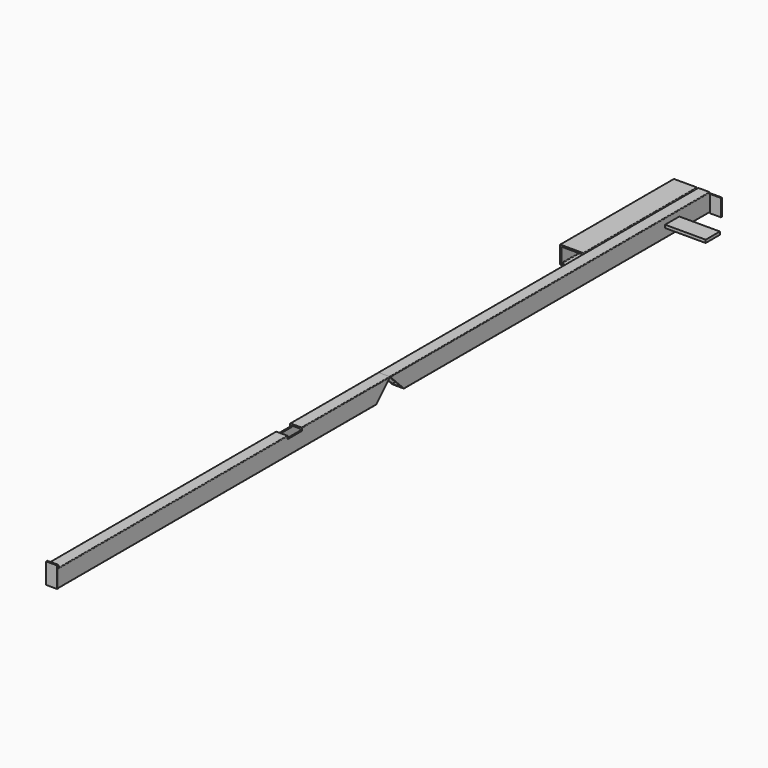
from build123d import *

# Parameters (mm, degrees)
F1_W      = 203.2
F1_H      = 152.4
F1_W_2    = 177.8
F1_H_2    = 127
F3_DEPTH  = 1219.2
F0_W      = 101.6
F0_H      = 152.4
F0_W_2    = 76.2
F0_H_2    = 127
F4_DEPTH  = 3429
F2_W      = 95.25
F2_H      = 146.05
F5_DEPTH  = 9.525
F6_DEPTH  = 3556
F9_DEPTH  = 311.151
F10_DEPTH = 311.151
F11_W     = 95.25
F11_H     = 209.55
F11_W_2   = 76.2
F11_H_2   = 179.6051224214
F12_DEPTH = 9.525
F13_W     = 95.25
F13_H     = 152.4
F13_W_2   = 76.2
F13_H_2   = 127
F13_H_3   = 25.4
F14_DEPTH = 12.7
F15_R     = 5.08
F15_2_R   = 5.08
F15_3_R   = 5.08
F16_W     = 609.6
F16_H     = 152.4
F17_DEPTH = 25.4
F18_W     = 246.9795793295
F18_H     = 152.4
F19_DEPTH = 25.4


with BuildPart() as f3:
    # F1 (on Front) → F3 (new body)
    with BuildSketch(Plane.XZ):
        with Locations((-158.75, -0.0468501925)):
            Rectangle(F1_W, F1_H)
        with Locations((-158.75, -0.0468501925)):
            Rectangle(F1_W_2, F1_H_2, mode=Mode.SUBTRACT)
    extrude(amount=F3_DEPTH)

    # F15#3
    f15_3_edges = [f3.edges().sort_by_distance(p)[0] for p in [
        (-69.85, -609.6, 63.45315),
        (-69.85, -609.6, -63.54685),
        (-247.65, -609.6, -63.54685),
        (-247.65, -609.6, 63.45315),
        (-57.15, -609.6, -76.24685),
        (-260.35, -609.6, -76.24685),
        (-260.35, -609.6, 76.15315),
        (-57.15, -609.6, 76.15315),
    ]]
    fillet(f15_3_edges, radius=F15_3_R)


with BuildPart() as f4:
    # F0 (on Front) → F4 (new body)
    with BuildSketch(Plane.XZ):
        Rectangle(F0_W, F0_H)
        Rectangle(F0_W_2, F0_H_2, mode=Mode.SUBTRACT)
    extrude(amount=F4_DEPTH)


with BuildPart() as f5:
    # F2 (on Front) → F5 (new body)
    with BuildSketch(Plane.XZ):
        with Locations((107.0601179898, -3.458078301)):
            Rectangle(F2_W, F2_H)
    extrude(amount=F5_DEPTH)


with BuildPart() as f6:
    # F6 (new): a face of the model
    f6_faces = [f4.part.faces().sort_by_distance(p)[0] for p in [
        (0, -3429, -74.3683799521),
    ]]
    extrude(f6_faces, amount=F6_DEPTH)

    # F7 (on face) → F10 (cut, through all)
    with BuildSketch(Plane.YZ.offset(50.8)):
        Polygon((-3429, -76.2), (-3429, 76.2), (-3581.4, -76.2), align=None)
    extrude(amount=-F10_DEPTH, mode=Mode.SUBTRACT)

    # F15#2
    f15_2_edges = [f6.edges().sort_by_distance(p)[0] for p in [
        (50.8, -5283.2, -76.2),
        (-50.8, -5283.2, -76.2),
        (50.8, -5207, 76.2),
        (-50.8, -5207, 76.2),
        (-38.1, -5213.35, 63.5),
        (38.1, -5213.35, 63.5),
        (38.1, -5276.85, -63.5),
        (-38.1, -5276.85, -63.5),
    ]]
    fillet(f15_2_edges, radius=F15_2_R)

    # F18 (on face) → F19 (cut)
    with BuildSketch(Plane.XY.offset(76.2)):
        with Locations((-5.5087581277, -4450.08)):
            Rectangle(F18_W, F18_H)
    extrude(amount=-F19_DEPTH, mode=Mode.SUBTRACT)


with BuildPart() as f4_1:
    add(f4.part)

    # F8 (on face) → F9 (cut, through all)
    with BuildSketch(Plane.YZ.offset(50.8)):
        Polygon((-3276.6, -76.2), (-3429, 76.2), (-3429, -76.2), align=None)
    extrude(amount=-F9_DEPTH, mode=Mode.SUBTRACT)

    # F15
    f15_edges = [f4_1.edges().sort_by_distance(p)[0] for p in [
        (-50.8, -1714.5, 76.2),
        (-50.8, -1638.3, -76.2),
        (50.8, -1638.3, -76.2),
        (50.8, -1714.5, 76.2),
        (-38.1, -1708.15, 63.5),
        (38.1, -1708.15, 63.5),
        (38.1, -1644.65, -63.5),
        (-38.1, -1644.65, -63.5),
    ]]
    fillet(f15_edges, radius=F15_R)


with BuildPart() as f12:
    # F11 (on face) → F12 (new body)
    with BuildSketch(Plane(origin=(0, -1752.6, 1752.6), x_dir=(-1, 0, 0), z_dir=(0, 0.7071067812, -0.7071067812))):
        with Locations((3.175, -2475.5626159623)):
            Rectangle(F11_W, F11_H)
        with Locations((0, -2478.5506894151)):
            Rectangle(F11_W_2, F11_H_2, mode=Mode.SUBTRACT)
        with Locations((0, -2478.5506894151)):
            Rectangle(F11_W_2, F11_H_2)
    extrude(amount=F12_DEPTH)


with BuildPart() as f14:
    # F13 (on face) → F14 (new body)
    with BuildSketch(Plane.XZ.offset(6985)):
        with Locations((3.175, 0)):
            Rectangle(F13_W, F13_H)
        Rectangle(F13_W_2, F13_H_2, mode=Mode.SUBTRACT)
        Rectangle(F13_W_2, F13_H_2)
        with Locations((3.175, 88.9)):
            Rectangle(F13_W, F13_H_3)
    extrude(amount=F14_DEPTH)


with BuildPart() as f17:
    # F16 (on Top) → F17 (new body)
    with BuildSketch(Plane.XY):
        with Locations((94.1249171257, -403.1442487717)):
            Rectangle(F16_W, F16_H)
    extrude(amount=F17_DEPTH)


solid = Compound([f3.part, f5.part, f6.part, f4_1.part, f12.part, f14.part, f17.part])
